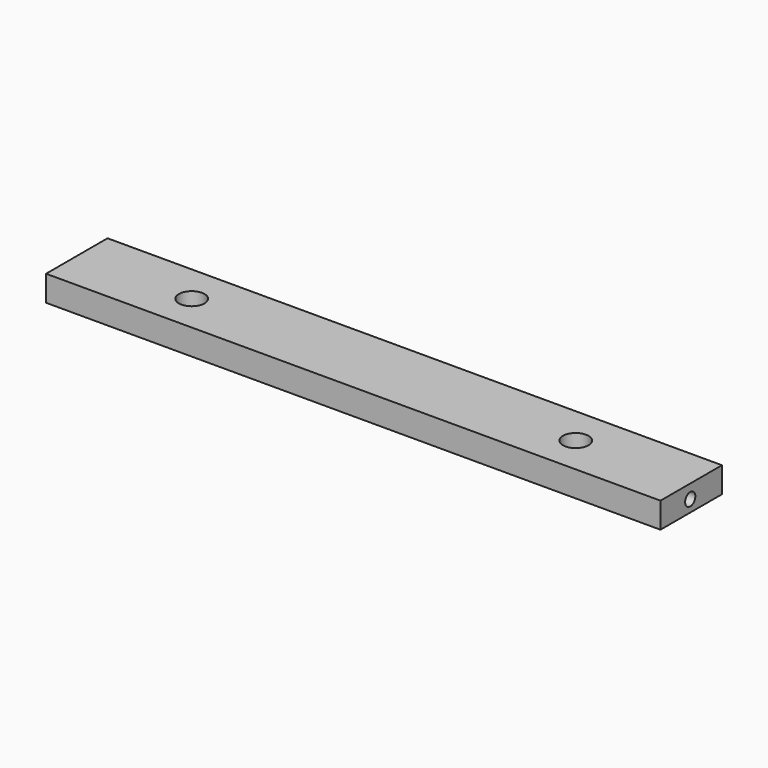
from build123d import *

# Parameters (mm, degrees)
F0_W     = 304.8
F0_H     = 38.1
F1_DEPTH = 12.7
F2_R     = 3.175
F3_DEPTH = 25.4
F4_R     = 3.175
F5_DEPTH = 25.4
F6_R     = 6.35
F7_DEPTH = 12.701


with BuildPart() as f1:
    # F0 (on Top) → F1 (new body)
    with BuildSketch(Plane.XY):
        with Locations((-152.4, 19.05)):
            Rectangle(F0_W, F0_H)
    extrude(amount=F1_DEPTH)

    # F2 (on face) → F3 (cut)
    with BuildSketch(Plane.YZ):
        with Locations((18.448802, 5.833903)):
            Circle(F2_R)
    extrude(amount=-F3_DEPTH, mode=Mode.SUBTRACT)

    # F4 (on face) → F5 (cut)
    with BuildSketch(Plane(origin=(-304.8, 0, 0), x_dir=(0, -1, 0), z_dir=(-1, 0, 0))):
        with Locations((-20.385453, 5.976154)):
            Circle(F4_R)
    extrude(amount=-F5_DEPTH, mode=Mode.SUBTRACT)

    # F6 (on face) → F7 (cut, through all)
    with BuildSketch(Plane.XY.offset(12.7)):
        with Locations((-247.65, 18.870285)):
            Circle(F6_R)
        with Locations((-57.15, 18.870285)):
            Circle(F6_R)
    extrude(amount=-F7_DEPTH, mode=Mode.SUBTRACT)


solid = f1.part
